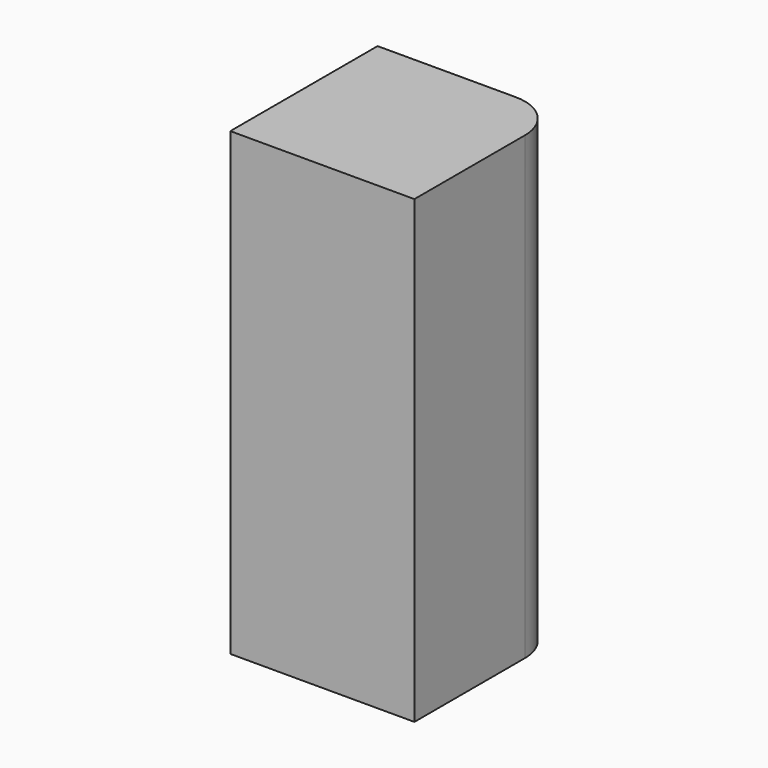
from build123d import *

# Parameters (mm, degrees)
F1_DEPTH = 25
F2_DEPTH = 25


with BuildPart() as f1:
    # F0 (on Top) → F1 (new body)
    with BuildSketch(Plane.XY):
        with BuildLine():
            Line((3.952905, 7.36742), (-11.047095, 7.36742))
            Line((-11.047095, 7.36742), (-11.047095, -12.63258))
            Line((-11.047095, -12.63258), (8.952905, -12.63258))
            Line((8.952905, -12.63258), (8.952905, 2.36742))
            ThreePointArc((8.952905, 2.36742), (7.488439, 5.902954), (3.952905, 7.36742))
        make_face()
    extrude(amount=F1_DEPTH)

    # F1_face (on face) → F2 (join)
    with BuildSketch(Plane(origin=(-1.167861, -2.753346, 25), x_dir=(1, 0, 0), z_dir=(0, 0, 1))):
        with BuildLine():
            Line((5.120766, 10.120766), (-9.879234, 10.120766))
            Line((-9.879234, 10.120766), (-9.879234, -9.879234))
            Line((-9.879234, -9.879234), (10.120766, -9.879234))
            Line((10.120766, -9.879234), (10.120766, 5.120766))
            ThreePointArc((10.120766, 5.120766), (8.6563, 8.6563), (5.120766, 10.120766))
        make_face()
    extrude(amount=F2_DEPTH)


solid = f1.part
